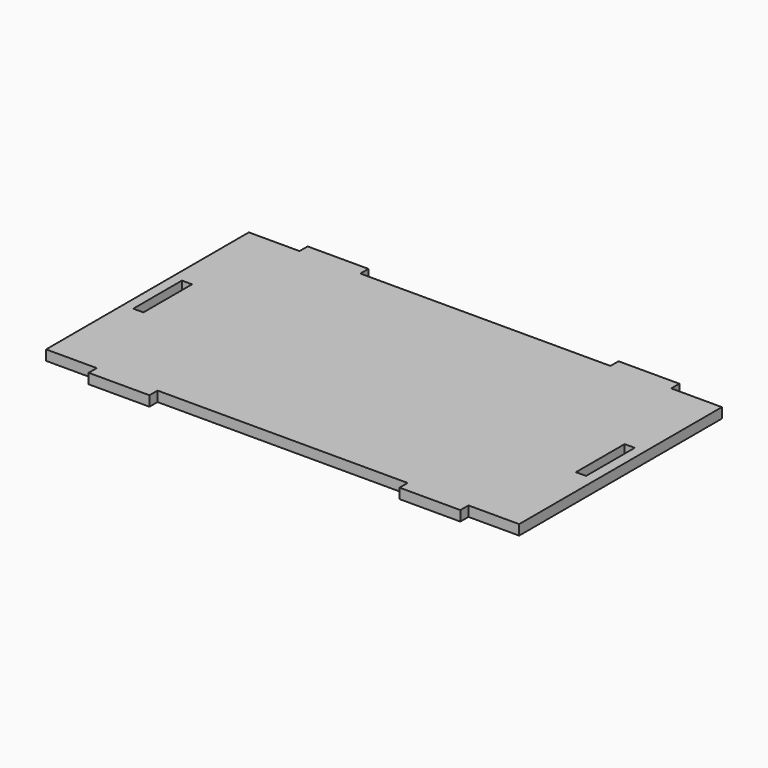
from build123d import *

# Parameters (mm, degrees)
F0_W     = 3
F0_H     = 18
F1_DEPTH = 3


with BuildPart() as f1:
    # F0 (on Top) → F1 (new body)
    with BuildSketch(Plane.XY):
        Polygon((70, -37.5), (70, 37.5), (55, 37.5), (55, 40.5), (37, 40.5), (37, 37.5), (-37, 37.5), (-37, 40.5), (-55, 40.5), (-55, 37.5), (-70, 37.5), (-70, -37.5), (-55, -37.5), (-55, -40.5), (-37, -40.5), (-37, -37.5), (37, -37.5), (37, -40.5), (55, -40.5), (55, -37.5), align=None)
        with Locations((-65.5, 0)):
            Rectangle(F0_W, F0_H, mode=Mode.SUBTRACT)
        with Locations((65.5, 0)):
            Rectangle(F0_W, F0_H, mode=Mode.SUBTRACT)
    extrude(amount=F1_DEPTH)


solid = f1.part
